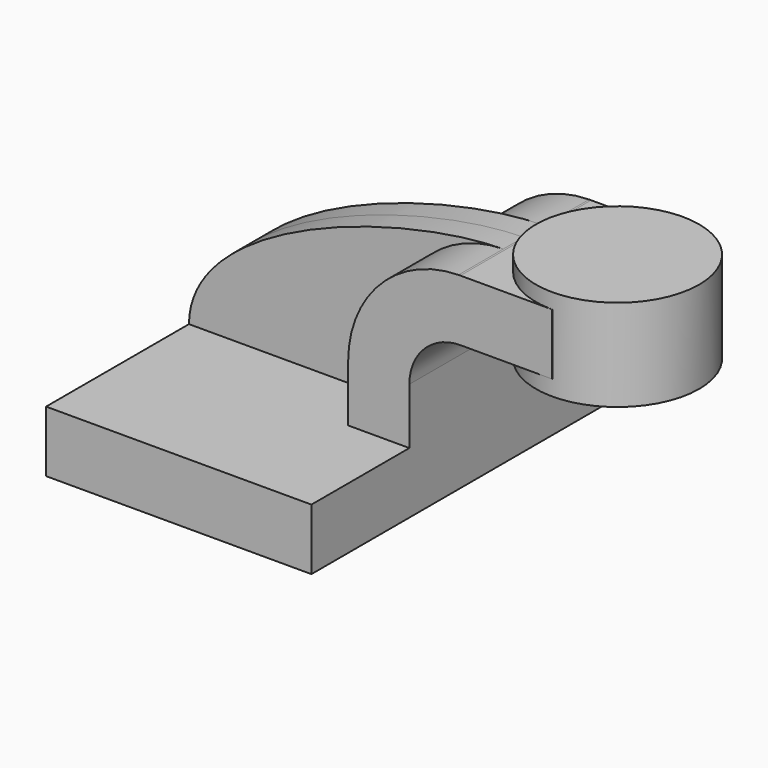
from build123d import *

# Parameters (mm, degrees)
F1_DEPTH = 63.5
F0_W     = 25.4
F0_H     = 19.05
F2_DEPTH = 25.4
F3_DEPTH = 7.9375


with BuildPart() as f1:
    # F0 (on Front) → F1 (new body, symmetric)
    with BuildSketch(Plane.XZ):
        Polygon((41.275, -9.525), (41.275, 9.525), (22.225, 9.525), (-41.275, 9.525), (-41.275, -9.525), align=None)
    extrude(amount=F1_DEPTH, both=True)

    # F0 (on Front) → F2 (join, symmetric)
    with BuildSketch(Plane.XZ):
        with BuildLine():
            Line((22.225, 9.525), (41.275, 9.525))
            Line((41.275, 9.525), (41.275, 27.0002))
            ThreePointArc((41.275, 27.0002), (45.9246798487, 38.2255201513), (57.15, 42.8752))
            Line((57.15, 42.8752), (60.325, 42.8752))
            Line((60.325, 42.8752), (60.325, 61.9252))
            Line((60.325, 61.9252), (57.15, 61.9252))
            add(Edge.make_bspline(
                [(56.558689265, 61.9201939378), (56.7570255825, 61.9226276245), (56.9541366131, 61.9242970793), (57.15, 61.9252)],
                knots=[110.8265178174, 110.8265178174, 110.8265178174, 110.8265178174, 111.5045361635, 111.5045361635, 111.5045361635, 111.5045361635], degree=3))
            ThreePointArc((56.558689265, 61.9201939378), (32.2461132309, 51.4859519548), (22.225, 27.0002))
            Line((22.225, 27.0002), (22.225, 9.525))
        make_face()
        with Locations((73.025, 52.4002)):
            Rectangle(F0_W, F0_H)
    extrude(amount=F2_DEPTH, both=True)

    # F0 (on Front) → F3 (join, symmetric)
    with BuildSketch(Plane.XZ):
        with BuildLine():
            Line((-41.275, 9.525), (22.225, 9.525))
            Line((22.225, 9.525), (22.225, 27.0002))
            ThreePointArc((22.225, 27.0002), (32.2461132309, 51.4859519548), (56.558689265, 61.9201939378))
            add(Edge.make_bspline(
                [(-41.275, 9.525), (-41.0172984332, 40.7058168065), (24.1393254559, 61.5223919803), (56.558689265, 61.9201939378)],
                knots=[0, 0, 0, 0, 110.8265178174, 110.8265178174, 110.8265178174, 110.8265178174], degree=3))
        make_face()
    extrude(amount=F3_DEPTH, both=True)


with BuildPart() as f4:
    # F0 (on Front) → F4 (revolve)
    with BuildSketch(Plane.XZ):
        Polygon((85.725, 61.9252), (85.725, 42.8752), (85.725, 38.1), (111.125, 38.1), (111.125, 66.675), (85.725, 66.675), align=None)
    revolve(axis=Axis((85.725, 0, 52.3875), (0, 0, 1)))


solid = Compound([f1.part, f4.part])
